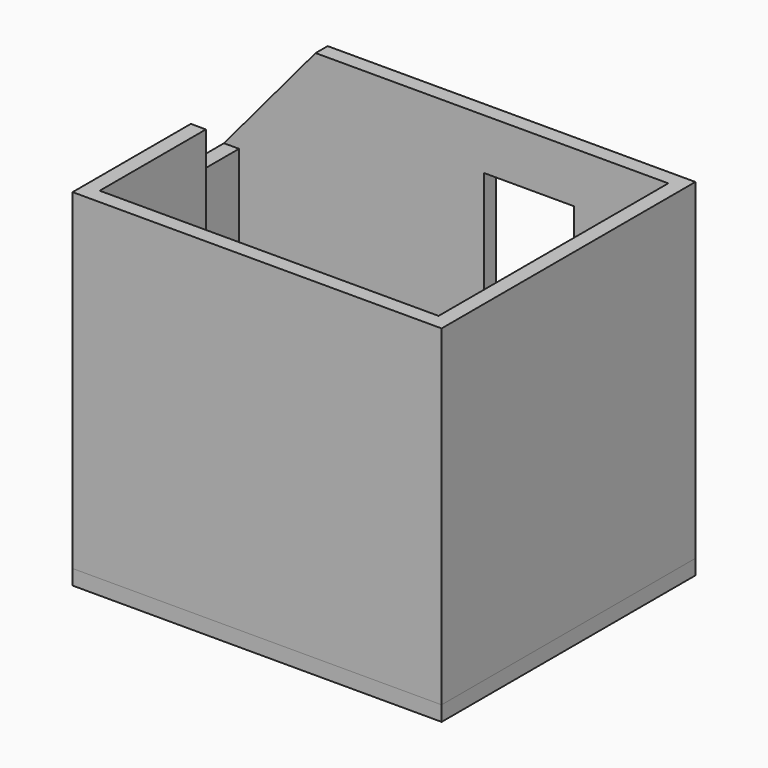
from build123d import *

# Parameters (mm, degrees)
F1_DEPTH  = 1498.6
F2_W      = 3098.8
F2_H      = 1498.6
F3_DEPTH  = 101.6
F5_DEPTH  = 736.6
F7_DEPTH  = 101.6
F8_W      = 609.6
F8_H      = 1206.5
F9_DEPTH  = 101.6
F0_W      = 609.6
F0_H      = 1041.4
F10_DEPTH = 101.6


with BuildPart() as f1:
    # F0 (on Top) → F1 (new body)
    with BuildSketch(Plane.XY):
        Polygon((-1854.2, -174.625), (-1244.6, -174.625), (-1244.6, -1069.975), (1244.6, -1069.975), (1244.6, 1069.975), (-1143, 1069.975), (-1854.2, 1069.975), align=None)
        Polygon((1143, 968.375), (1143, -968.375), (-1143, -968.375), (-1143, -73.025), (-1752.6, -73.025), (-1752.6, 968.375), (-1143, 968.375), align=None, mode=Mode.SUBTRACT)
    extrude(amount=F1_DEPTH)

    # F2 (on face) → F3 (join)
    with BuildSketch(Plane(origin=(0, 1069.975, 0), x_dir=(-1, 0, 0), z_dir=(0, 1, 0))):
        with Locations((304.8, 749.3)):
            Rectangle(F2_W, F2_H)
        Polygon((-1244.6, 2235.2), (-1244.6, 1498.6), (1854.2, 1498.6), (1236.1192116748, 2235.2), align=None)
        Polygon((-1244.6, 2235.2), (-1244.6, 1498.6), (1854.2, 1498.6), (1236.1192116748, 2235.2), align=None)
    extrude(amount=-F3_DEPTH)

    # F4 (on face) → F5 (join, through all)
    with BuildSketch(Plane.XY.offset(1498.6)):
        Polygon((-1244.6, -174.625), (-1244.6, -1069.975), (1244.6, -1069.975), (1244.6, 968.375), (1143, 968.375), (1143, -968.375), (-1143, -968.375), (-1143, -73.025), (-1244.6, -73.025), align=None)
    extrude(amount=F5_DEPTH)

    # F6 (on face) → F7 (join)
    with BuildSketch(Plane(origin=(0, -73.025, 0), x_dir=(-1, 0, 0), z_dir=(0, 1, 0))):
        Polygon((1244.6, 2235.2), (1244.6, 1498.6), (1752.6, 1498.6), (1854.2, 1498.6), align=None)
    extrude(amount=-F7_DEPTH)

    # F8 (on face) → F9 (cut)
    with BuildSketch(Plane(origin=(0, 1069.975, 0), x_dir=(-1, 0, 0), z_dir=(0, 1, 0))):
        with Locations((-203.2, 1289.05)):
            Rectangle(F8_W, F8_H)
        with Locations((-203.2, 1289.05)):
            Rectangle(F8_W, F8_H)
    extrude(amount=-F9_DEPTH, mode=Mode.SUBTRACT)


with BuildPart() as f10:
    # F0 (on Top) → F10 (new body)
    with BuildSketch(Plane.XY):
        Polygon((-1854.2, -174.625), (-1244.6, -174.625), (-1244.6, -1069.975), (1244.6, -1069.975), (1244.6, 1069.975), (-1143, 1069.975), (-1854.2, 1069.975), align=None)
        Polygon((1143, 968.375), (1143, -968.375), (-1143, -968.375), (-1143, -73.025), (-1752.6, -73.025), (-1752.6, 968.375), (-1143, 968.375), align=None, mode=Mode.SUBTRACT)
        Polygon((-1143, -968.375), (1143, -968.375), (1143, 968.375), (-1143, 968.375), (-1143, -73.025), align=None)
        with Locations((-1447.8, 447.675)):
            Rectangle(F0_W, F0_H)
    extrude(amount=-F10_DEPTH)


solid = Compound([f1.part, f10.part])
